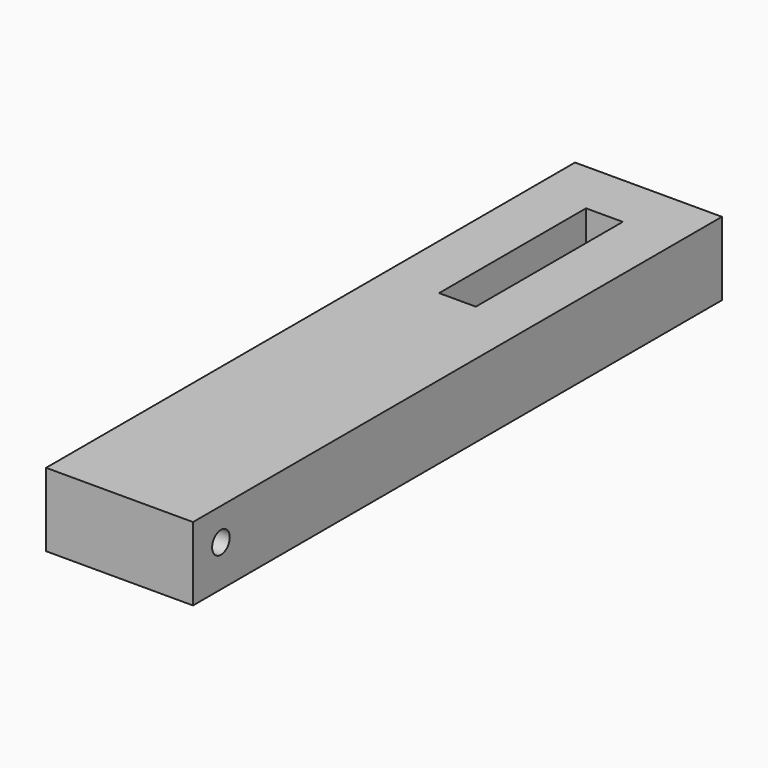
from build123d import *

# Parameters (mm, degrees)
F0_W     = 12.7
F0_H     = 63.5
F1_DEPTH = 6.35
F0_W_2   = 50.8
F0_H_2   = 228.6
F2_DEPTH = 25.4
F4_D     = 7.62


with BuildPart() as f1:
    # F0 (on Top) → F1 (new body)
    with BuildSketch(Plane.XY):
        with Locations((-38.724346, 73.146781)):
            Rectangle(F0_W, F0_H)
    extrude(amount=F1_DEPTH)

    # F0 (on Top) → F2 (join)
    with BuildSketch(Plane.XY):
        with Locations((-38.724346, 9.646781)):
            Rectangle(F0_W_2, F0_H_2)
        with Locations((-38.724346, 73.146781)):
            Rectangle(F0_W, F0_H, mode=Mode.SUBTRACT)
    extrude(amount=F2_DEPTH)

    # F4 (through all)
    with Locations(Plane(origin=(-64.124346, 0, 0), x_dir=(0, -1, 0), z_dir=(-1, 0, 0))):
        with Locations((92.579484, 14.321566)):
            Hole(F4_D / 2)


solid = f1.part
